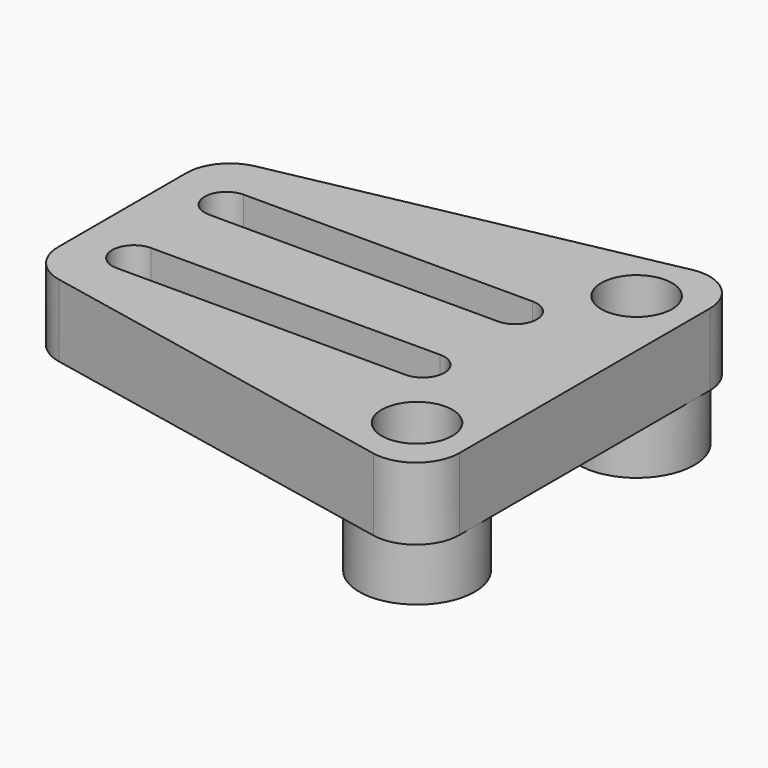
from build123d import *

# Parameters (mm, degrees)
SKETCH_R      = 2.45
PAD_DEPTH     = 5
SKETCH001_R   = 4
SKETCH001_R_2 = 2.484206
SKETCH001_R_3 = 2.488042
PAD001_DEPTH  = 9
FILLET_R      = 3
CHAMFER_SIZE  = 1


with BuildPart() as part:
    # Sketch → Pad (new body)
    with BuildSketch(Plane.XY):
        Polygon((189.036612, 104.147994), (157.036612, 97.647994), (157.036612, 81.647994), (189.036612, 75.147994), align=None)
        with Locations((185.036612, 80.147994)):
            Circle(SKETCH_R, mode=Mode.SUBTRACT)
        with Locations((185.036612, 99.147994)):
            Circle(SKETCH_R, mode=Mode.SUBTRACT)
        with BuildLine():
            ThreePointArc((181.036612, 92.147994), (182.536612, 93.647994), (181.036612, 95.147994))
            Line((181.036612, 95.147994), (161.036612, 95.147994))
            ThreePointArc((161.036612, 95.147994), (159.536612, 93.647994), (161.036612, 92.147994))
            Line((181.036612, 92.147994), (161.036612, 92.147994))
        make_face(mode=Mode.SUBTRACT)
        with BuildLine():
            ThreePointArc((181.036612, 84.147994), (182.536612, 85.647994), (181.036612, 87.147994))
            Line((181.036612, 87.147994), (161.036612, 87.147994))
            ThreePointArc((161.036612, 87.147994), (159.536612, 85.647994), (161.036612, 84.147994))
            Line((181.036612, 84.147994), (161.036612, 84.147994))
        make_face(mode=Mode.SUBTRACT)
    extrude(amount=PAD_DEPTH)

    # Sketch001 → Pad001 (join)
    with BuildSketch(Plane.XY.offset(5)):
        with Locations((185.036612, 99.147994)):
            Circle(SKETCH001_R)
        with Locations((185.036612, 99.147994)):
            Circle(SKETCH001_R_2, mode=Mode.SUBTRACT)
        with Locations((185.036612, 80.147994)):
            Circle(SKETCH001_R)
        with Locations((185.036612, 80.147994)):
            Circle(SKETCH001_R_3, mode=Mode.SUBTRACT)
    extrude(amount=-PAD001_DEPTH)

    # Fillet
    fillet_edges = [part.edges().sort_by_distance(p)[0] for p in [
        (189.036612, 104.147994, 2.5),
        (189.036612, 75.147994, 2.5),
        (157.036612, 97.647994, 2.5),
        (157.036612, 81.647994, 2.5),
    ]]
    fillet(fillet_edges, radius=FILLET_R)

    # Chamfer
    chamfer_edges = [part.edges().sort_by_distance(p)[0] for p in [
        (171.036612, 95.147994, 0),
        (171.036612, 92.147994, 0),
        (171.036612, 87.147994, 0),
        (171.036612, 84.147994, 0),
    ]]
    chamfer(chamfer_edges, length=CHAMFER_SIZE)


solid = part.part
